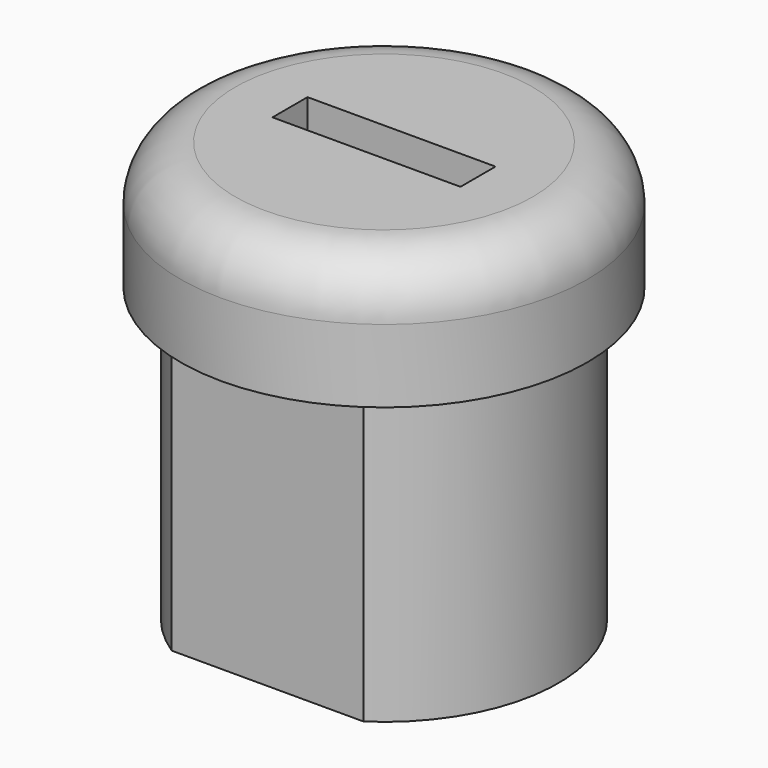
from build123d import *

# Parameters (mm, degrees)
SKETCH025_R  = 11.15
SKETCH025_W  = 10.3
SKETCH025_H  = 2.4
PAD081_DEPTH = 7
PAD083_DEPTH = 16
FILLET005_R  = 3


with BuildPart() as part:
    # Sketch025 → Pad081 (new body)
    with BuildSketch(Plane.XY):
        Circle(SKETCH025_R)
        Rectangle(SKETCH025_W, SKETCH025_H, mode=Mode.SUBTRACT)
    extrude(amount=PAD081_DEPTH)

    # Sketch026 → Pad083 (join)
    with BuildSketch(Plane(origin=(0, 0, 0), x_dir=(-1, 0, 0), z_dir=(0, 0, -1))):
        with BuildLine():
            Line((-5.253749, 7.975), (5.253749, 7.975))
            ThreePointArc((5.253749, -7.975), (9.55, 0), (5.253749, 7.975))
            Line((-5.253749, -7.975), (5.253749, -7.975))
            ThreePointArc((-5.253749, 7.975), (-9.55, 0), (-5.253749, -7.975))
        make_face()
    extrude(amount=PAD083_DEPTH)

    # Fillet005
    fillet005_edges = [part.edges().sort_by_distance(p)[0] for p in [
        (-11.15, 0, 7),
    ]]
    fillet(fillet005_edges, radius=FILLET005_R)


solid = part.part
